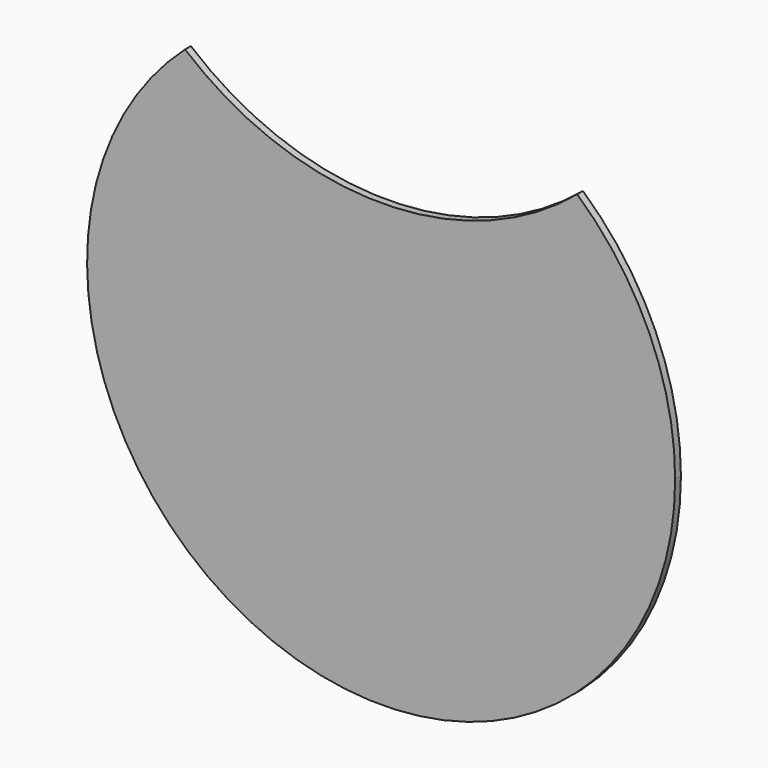
from build123d import *

# Parameters (mm, degrees)
F1_DEPTH = 6


with BuildPart() as f1:
    # F0 (on Front) → F1 (new body)
    with BuildSketch(Plane.XZ):
        with BuildLine():
            ThreePointArc((-163.363725, 182.58503), (-100.002218, -223.661701), (245, 0))
            ThreePointArc((245, 0), (223.661701, 100.002218), (163.363725, 182.58503))
            ThreePointArc((163.363725, 182.58503), (0, 123.08), (-163.363725, 182.58503))
        make_face()
    extrude(amount=F1_DEPTH)


solid = f1.part
